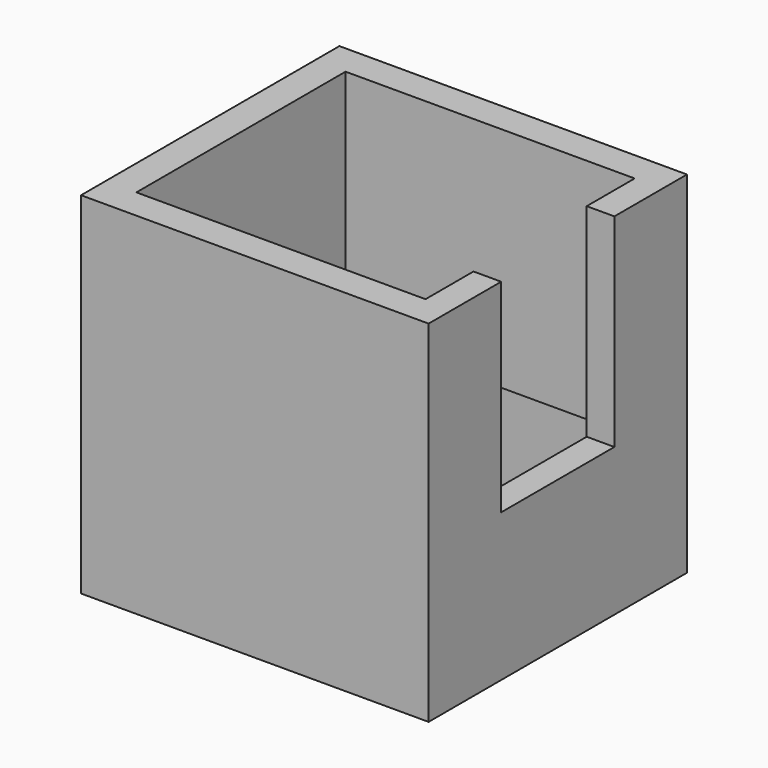
from build123d import *

# Parameters (mm, degrees)
SKETCH127_W             = 52.5
SKETCH127_H             = 56.5
SKETCH127_W_2           = 42.5
SKETCH127_H_2           = 47
PAD064_DEPTH            = 37
SKETCH125_W             = 23
SKETCH125_H             = 33
POCKET054_DEPTH         = 5
SKETCH129_W             = 52.5
SKETCH129_H             = 56.5
SKETCH129_W_2           = 47
SKETCH129_H_2           = 52
PAD063_DEPTH            = 20
BODY035_PLACEMENT_ANGLE = -90


with BuildPart() as part:
    # Sketch127 → Pad064 (new body)
    with BuildSketch(Plane.XY):
        with Locations((0, -26)):
            Rectangle(SKETCH127_W, SKETCH127_H)
        with Locations((0, -25.75)):
            Rectangle(SKETCH127_W_2, SKETCH127_H_2, mode=Mode.SUBTRACT)
    extrude(amount=PAD064_DEPTH)

    # Sketch125 (on Face1 of Pad064) → Pocket054 (cut)
    with BuildSketch(Plane(origin=(0, 2.25, 0), x_dir=(-1, 0, 0), z_dir=(0, 1, 0))):
        with Locations((0, 20.5)):
            Rectangle(SKETCH125_W, SKETCH125_H)
    extrude(amount=-POCKET054_DEPTH, mode=Mode.SUBTRACT)

    # Sketch129 (on Face2 of Pocket054) → Pad063 (join)
    with BuildSketch(Plane(origin=(0, 0, 0), x_dir=(1, 0, 0), z_dir=(0, 0, -1))):
        with Locations((0, 26)):
            Rectangle(SKETCH129_W, SKETCH129_H)
        with Locations((0, 26)):
            Rectangle(SKETCH129_W_2, SKETCH129_H_2, mode=Mode.SUBTRACT)
    extrude(amount=PAD063_DEPTH)


with BuildPart() as part_1:
    # Body035 placement: moved
    add(part.part.moved(Location((0, 0, 135))).rotate(Axis((0, 0, 135), (0, 0, 1)), BODY035_PLACEMENT_ANGLE))


solid = part_1.part
